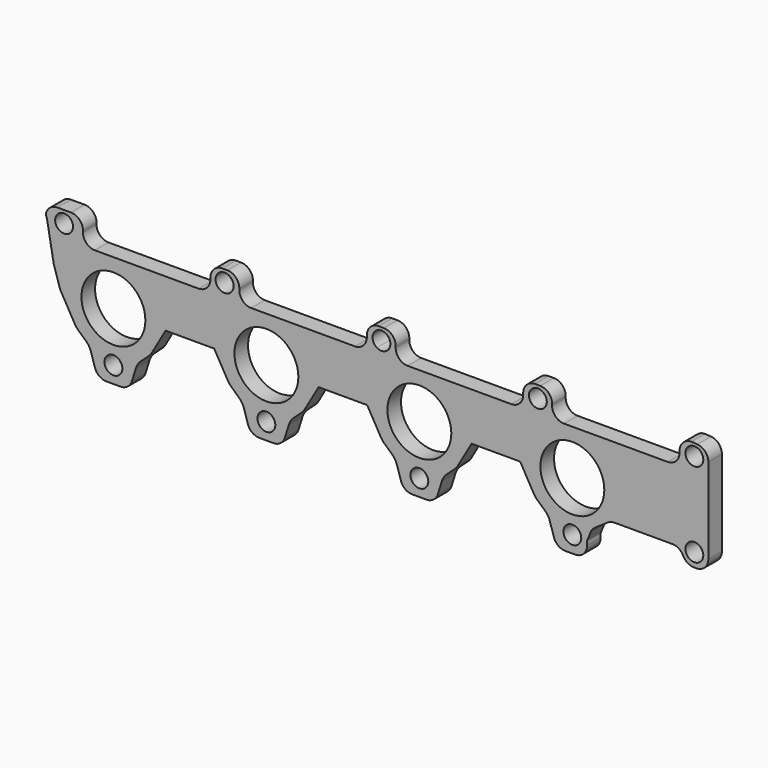
from build123d import *

# Parameters (mm, degrees)
F0_R     = 5.25
F0_R_2   = 18.800913
F0_R_3   = 5.254085
F0_R_4   = 5.311104
F1_DEPTH = 10


with BuildPart() as f1:
    # F0 (on Front) → F1 (new body)
    with BuildSketch(Plane.XZ):
        with BuildLine():
            Line((195, 23.072333), (195, 73.480297))
            ThreePointArc((195, 73.480297), (193.122359, 78.251192), (188.496733, 80.46265))
            Line((188.496733, 80.46265), (185.082949, 80.705511))
            ThreePointArc((185.082949, 80.705511), (180.133201, 78.655259), (178.082949, 73.705511))
            Line((178.082949, 73.705511), (178.082949, 72.705511))
            ThreePointArc((178.082949, 72.705511), (176.032696, 67.755764), (171.082949, 65.705511))
            Line((171.082949, 65.705511), (110.082949, 65.705511))
            ThreePointArc((110.082949, 65.705511), (105.133201, 67.755764), (103.082949, 72.705511))
            Line((103.082949, 72.705511), (103.082949, 73.705511))
            ThreePointArc((103.082949, 73.705511), (101.032696, 78.655259), (96.082949, 80.705511))
            Line((96.082949, 80.705511), (93.082949, 80.705511))
            ThreePointArc((93.082949, 80.705511), (88.133201, 78.655259), (86.082949, 73.705511))
            Line((86.082949, 73.705511), (86.082949, 72.705511))
            ThreePointArc((86.082949, 72.705511), (84.032696, 67.755764), (79.082949, 65.705511))
            Line((79.082949, 65.705511), (18.082949, 65.705511))
            ThreePointArc((18.082949, 65.705511), (13.133201, 67.755764), (11.082949, 72.705511))
            Line((11.082949, 72.705511), (11.082949, 73.705511))
            ThreePointArc((11.082949, 73.705511), (9.032696, 78.655259), (4.082949, 80.705511))
            Line((4.082949, 80.705511), (1.082949, 80.705511))
            ThreePointArc((1.082949, 80.705511), (-3.866799, 78.655259), (-5.917051, 73.705511))
            Line((-5.917051, 73.705511), (-5.917051, 72.705511))
            ThreePointArc((-5.917051, 72.705511), (-7.967304, 67.755764), (-12.917051, 65.705511))
            Line((-12.917051, 65.705511), (-73.917051, 65.705511))
            ThreePointArc((-73.917051, 65.705511), (-78.866799, 67.755764), (-80.917051, 72.705511))
            Line((-80.917051, 72.705511), (-80.917051, 73.705511))
            ThreePointArc((-80.917051, 73.705511), (-82.967304, 78.655259), (-87.917051, 80.705511))
            Line((-87.917051, 80.705511), (-90.917051, 80.705511))
            ThreePointArc((-90.917051, 80.705511), (-95.866799, 78.655259), (-97.917051, 73.705511))
            Line((-97.917051, 73.705511), (-97.917051, 72.705511))
            ThreePointArc((-97.917051, 72.705511), (-99.967304, 67.755764), (-104.917051, 65.705511))
            Line((-104.917051, 65.705511), (-165.917051, 65.705511))
            ThreePointArc((-165.917051, 65.705511), (-170.866799, 67.755764), (-172.917051, 72.705511))
            Line((-172.917051, 72.705511), (-172.917051, 73.705511))
            ThreePointArc((-172.917051, 73.705511), (-174.967304, 78.655259), (-179.917051, 80.705511))
            Line((-179.917051, 80.705511), (-187.917051, 80.705511))
            ThreePointArc((-187.917051, 80.705511), (-191.62203, 79.64463), (-194.203996, 76.78355))
            ThreePointArc((-194.203996, 76.78355), (-194.606342, 74.960742), (-194.128551, 73.156241))
            Line((-194.128551, 73.156241), (-190.179633, 51.218559))
            ThreePointArc((-190.179633, 51.218559), (-190.114418, 50.911785), (-190.030097, 50.609704))
            Line((-190.030097, 50.609704), (-186.59138, 39.632266))
            ThreePointArc((-186.59138, 39.632266), (-186.208592, 38.609697), (-185.716602, 37.634957))
            Line((-185.716602, 37.634957), (-177.611824, 23.546821))
            ThreePointArc((-177.611824, 23.546821), (-176.740115, 22.270978), (-175.682257, 21.144661))
            Line((-175.682257, 21.144661), (-171.066362, 16.935058))
            ThreePointArc((-171.066362, 16.935058), (-169.380238, 14.933988), (-168.270966, 12.564006))
            Line((-168.270966, 12.564006), (-165.841167, 4.887599))
            ThreePointArc((-165.841167, 4.887599), (-163.303518, 1.352575), (-159.167506, 0))
            Line((-159.167506, 0), (-155, 0))
            Line((-155, 0), (-150.832494, 0))
            ThreePointArc((-150.832494, 0), (-146.696482, 1.352575), (-144.158833, 4.887599))
            Line((-144.158833, 4.887599), (-141.729034, 12.564006))
            ThreePointArc((-141.729034, 12.564006), (-140.619762, 14.933988), (-138.933638, 16.935058))
            Line((-138.933638, 16.935058), (-134.317743, 21.144661))
            ThreePointArc((-134.317743, 21.144661), (-133.259885, 22.270978), (-132.388176, 23.546821))
            Line((-132.388176, 23.546821), (-124.283398, 37.634957))
            Line((-124.283398, 37.634957), (-95.716602, 37.634957))
            Line((-95.716602, 37.634957), (-87.611824, 23.546821))
            ThreePointArc((-87.611824, 23.546821), (-86.740115, 22.270978), (-85.682257, 21.144661))
            Line((-85.682257, 21.144661), (-81.066362, 16.935058))
            ThreePointArc((-81.066362, 16.935058), (-79.380238, 14.933988), (-78.270966, 12.564006))
            Line((-78.270966, 12.564006), (-75.841167, 4.887599))
            ThreePointArc((-75.841167, 4.887599), (-73.303518, 1.352575), (-69.167506, 0))
            Line((-69.167506, 0), (-60.832494, 0))
            ThreePointArc((-60.832494, 0), (-56.696482, 1.352575), (-54.158833, 4.887599))
            Line((-54.158833, 4.887599), (-51.729034, 12.564006))
            ThreePointArc((-51.729034, 12.564006), (-50.619762, 14.933988), (-48.933638, 16.935058))
            Line((-48.933638, 16.935058), (-44.317743, 21.144661))
            ThreePointArc((-44.317743, 21.144661), (-43.259885, 22.270978), (-42.388176, 23.546821))
            Line((-42.388176, 23.546821), (-34.283398, 37.634957))
            Line((-34.283398, 37.634957), (-5.716602, 37.634957))
            Line((-5.716602, 37.634957), (0, 27.69807))
            Line((0, 27.69807), (2.388176, 23.546821))
            ThreePointArc((2.388176, 23.546821), (3.259885, 22.270978), (4.317743, 21.144661))
            Line((4.317743, 21.144661), (8.933638, 16.935058))
            ThreePointArc((8.933638, 16.935058), (10.619762, 14.933988), (11.729034, 12.564006))
            Line((11.729034, 12.564006), (14.158833, 4.887599))
            ThreePointArc((14.158833, 4.887599), (16.696482, 1.352575), (20.832494, 0))
            Line((20.832494, 0), (29.167506, 0))
            ThreePointArc((29.167506, 0), (33.303518, 1.352575), (35.841167, 4.887599))
            Line((35.841167, 4.887599), (38.270966, 12.564006))
            ThreePointArc((38.270966, 12.564006), (39.380238, 14.933988), (41.066362, 16.935058))
            Line((41.066362, 16.935058), (45.682257, 21.144661))
            ThreePointArc((45.682257, 21.144661), (46.740115, 22.270978), (47.611824, 23.546821))
            Line((47.611824, 23.546821), (55.716602, 37.634957))
            Line((55.716602, 37.634957), (84.283398, 37.634957))
            Line((84.283398, 37.634957), (92.388176, 23.546821))
            ThreePointArc((92.388176, 23.546821), (93.259885, 22.270978), (94.317743, 21.144661))
            Line((94.317743, 21.144661), (98.933638, 16.935058))
            ThreePointArc((98.933638, 16.935058), (100.619762, 14.933988), (101.729034, 12.564006))
            Line((101.729034, 12.564006), (104.158833, 4.887599))
            ThreePointArc((104.158833, 4.887599), (106.696482, 1.352575), (110.832494, 0))
            Line((110.832494, 0), (116.678365, 0))
            ThreePointArc((116.678365, 0), (121.628113, 2.050253), (123.678365, 7))
            Line((123.678365, 7), (123.678365, 9.434213))
            Line((123.678365, 9.434213), (125.800882, 14.62259))
            ThreePointArc((125.800882, 14.62259), (126.842165, 16.38046), (128.346681, 17.762781))
            Line((128.346681, 17.762781), (135.855722, 22.862975))
            ThreePointArc((135.855722, 22.862975), (137.704573, 23.750323), (139.732566, 24.055079))
            Line((139.732566, 24.055079), (173.859254, 24.055079))
            ThreePointArc((173.859254, 24.055079), (177.424201, 23.079292), (179.995255, 20.423979))
            Line((179.995255, 20.423979), (180.390863, 19.703433))
            ThreePointArc((180.390863, 19.703433), (182.961917, 17.048119), (186.526864, 16.072333))
            Line((186.526864, 16.072333), (188, 16.072333))
            ThreePointArc((188, 16.072333), (192.949747, 18.122585), (195, 23.072333))
        make_face()
        with Locations((-155, 9.734498)):
            Circle(F0_R, mode=Mode.SUBTRACT)
        with Locations((-65, 9.734498)):
            Circle(F0_R, mode=Mode.SUBTRACT)
        with Locations((-155, 39.055079)):
            Circle(F0_R_2, mode=Mode.SUBTRACT)
        with Locations((-65, 39.055079)):
            Circle(F0_R_2, mode=Mode.SUBTRACT)
        with Locations((25, 9.734498)):
            Circle(F0_R, mode=Mode.SUBTRACT)
        with Locations((115, 9.734498)):
            Circle(F0_R, mode=Mode.SUBTRACT)
        with Locations((25, 39.055079)):
            Circle(F0_R_2, mode=Mode.SUBTRACT)
        with Locations((186.789841, 24.055079)):
            Circle(F0_R, mode=Mode.SUBTRACT)
        with Locations((115, 39.055079)):
            Circle(F0_R_2, mode=Mode.SUBTRACT)
        with Locations((-183.994836, 73.705511)):
            Circle(F0_R_3, mode=Mode.SUBTRACT)
        with Locations((-89.581637, 73.705511)):
            Circle(F0_R_4, mode=Mode.SUBTRACT)
        with BuildLine():
            ThreePointArc((7.963389, 73.705511), (5.293816, 69.133433), (0, 69.211068))
            ThreePointArc((0, 69.211068), (-2.536611, 73.705511), (0, 78.199955))
            ThreePointArc((0, 78.199955), (5.293816, 78.277589), (7.963389, 73.705511))
        make_face(mode=Mode.SUBTRACT)
        with Locations((94.714896, 73.705511)):
            Circle(F0_R, mode=Mode.SUBTRACT)
        with Locations((186.789841, 73.705511)):
            Circle(F0_R, mode=Mode.SUBTRACT)
    extrude(amount=F1_DEPTH)


solid = f1.part
